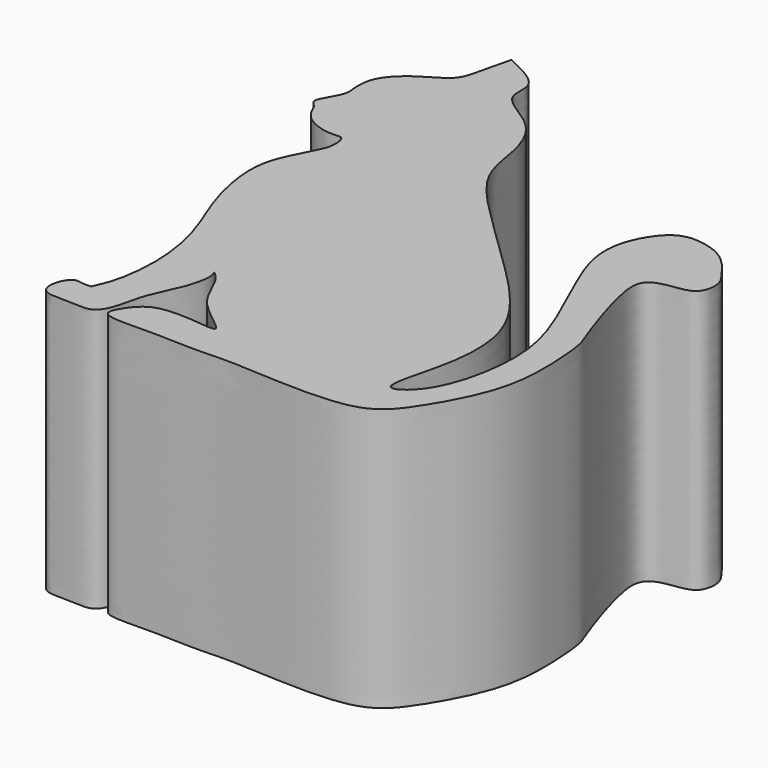
from build123d import *

# Parameters (mm, degrees)
F1_DEPTH = 30


with BuildPart() as f1:
    # F0 (on Top) → F1 (new body)
    with BuildSketch(Plane.XY):
        with BuildLine():
            add(Edge.make_bspline(
                [(-16.286065802, -28.5238474607), (-16.5873279378, -28.5465780149), (-17.2129911939, -28.5937849847), (-18.4760178191, -28.1716531507), (-19.5027068851, -30.2949191077), (-19.026964905, -32.2671724496), (-15.6929889315, -31.9177456821), (-13.3246920769, -32.3483902284), (-12.0476164358, -30.2375481645), (-11.5942195059, -26.725147479), (-9.6414828646, -23.4944579132), (-8.9955121893, -20.2099964069), (-9.6805349176, -19.3037302726), (-8.2698854278, -20.5457159823), (-7.449327594, -22.9126275063), (-5.7615435253, -25.5202501919), (-1.1824444811, -28.4628439657), (-5.1905275337, -27.8736115739), (-7.9974278448, -27.7840230112), (-10.1203590427, -28.3401029775), (-11.4755952193, -29.9645267542), (-12.6850790246, -32.3602848822), (-6.7890964946, -31.9708558972), (-1.1491129723, -32.3543287352), (2.9102096411, -31.9142591336), (16.9459706801, -33.313655722), (20.7933445216, -28.7388576761), (24.3506965075, -22.3422695245), (25.300687147, -16.6358798448), (24.7817511429, -10.234553353), (24.1710602369, -8.8893526028), (21.0740367618, -0.1235874922), (21.3269855139, 3.3360019231), (24.3419582581, 3.8332106199), (26.7999760464, 4.1570739142), (27.2071783553, 6.8457186204), (26.0835237299, 8.3066552345), (24.0421068377, 11.1560711337), (20.9318360317, 12.1918363138), (17.530145363, 12.1775790477), (14.0075742801, 5.9992969615), (16.9775292936, -1.2792509552), (20.7644631224, -9.1491155111), (22.319428874, -15.8803696412), (20.4257064071, -25.2060948935), (15.3562794016, -28.5106311969), (18.2592322647, -20.0872038844), (18.4152573772, -11.0423349639), (10.0500507875, -2.4405678019), (2.603433764, 4.5658019516), (-2.7771382497, 10.2782295296), (-3.0642254461, 15.8936147578), (-5.2250812913, 20.5962667455), (-10.7028201896, 22.8563348241), (-9.3007836757, 26.5855286951), (-12.511196752, 28.0866892231), (-14.3698323518, 28.9557706565)],
                knots=[0, 0, 0, 0, 0.0088822344, 0.0184466849, 0.031537242, 0.0430467589, 0.0590564579, 0.0729426838, 0.0860723982, 0.103363296, 0.1218228409, 0.1383480114, 0.1447617989, 0.1548679676, 0.1697605317, 0.1871492456, 0.2045698391, 0.2184474064, 0.235014794, 0.2481166247, 0.2617151876, 0.2733037059, 0.2932204633, 0.3155994325, 0.3349791928, 0.3684559036, 0.3902362841, 0.4145666156, 0.4375127538, 0.4597706555, 0.4720160256, 0.4998369792, 0.5158705278, 0.5307532048, 0.5446586843, 0.5581747054, 0.5706548624, 0.5875899342, 0.604041494, 0.6198612151, 0.6423415776, 0.6679336464, 0.6950682119, 0.7195712918, 0.7479498607, 0.7641596229, 0.787061885, 0.8152499182, 0.846373857, 0.8764524777, 0.9015227318, 0.9227299274, 0.943414584, 0.9640583736, 0.9791919654, 1, 1, 1, 1], degree=3))
            add(Edge.make_bspline(
                [(-14.3698323518, 28.9557706565), (-14.6843406167, 27.5770411286), (-15.2350326484, 25.1629380683), (-15.9065138437, 22.7850066253), (-19.042421177, 21.4173777838), (-21.7788388439, 18.8246198653), (-21.9320675144, 16.6588469899), (-21.8820761442, 15.770952446), (-21.6660619381, 14.4685804008), (-23.1858243347, 12.3192446244), (-23.1425877478, 11.5986538249), (-22.718721587, 11.2084357491), (-22.4908608943, 10.9986634925)],
                knots=[0, 0, 0, 0, 0.1424619257, 0.2494454234, 0.3789066518, 0.5171637406, 0.6175258936, 0.6832450127, 0.763763452, 0.8777494091, 0.934280896, 1, 1, 1, 1], degree=3))
            add(Edge.make_bspline(
                [(-22.4908608943, 10.9986634925), (-22.145270427, 10.2239951405), (-21.4117139766, 8.5796703684), (-18.1162739104, 7.601321453), (-16.6112884347, 8.1179621682), (-16.3729469748, 6.1774272733), (-16.8631808668, 4.821802901), (-18.0141817829, 2.6511305982), (-19.8281693323, -1.0220583276), (-18.484153832, -8.306794904), (-16.0725867604, -13.3075592569), (-14.5145798655, -19.7101168059), (-15.0769903732, -25.8188849197), (-15.936806155, -27.7424782925), (-16.286065802, -28.5238474607)],
                knots=[0, 0, 0, 0, 0.0719737549, 0.1527727677, 0.2022066539, 0.2569545106, 0.312061138, 0.3808014675, 0.4706377255, 0.5907919752, 0.6986090793, 0.8140076005, 0.9244493516, 1, 1, 1, 1], degree=3))
        make_face()
    extrude(amount=F1_DEPTH)


solid = f1.part
